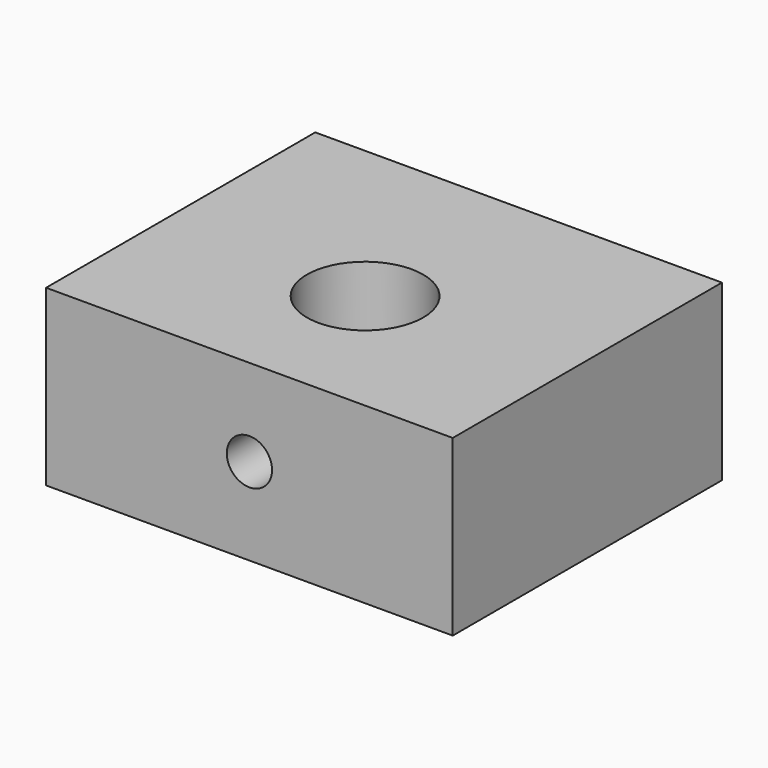
from build123d import *

# Parameters (mm, degrees)
F0_W     = 70.1
F0_H     = 58
F1_DEPTH = 30
F2_R     = 10.025
F3_DEPTH = 30
F5_D     = 7.8


with BuildPart() as f1:
    # F0 (on Top) → F1 (new body)
    with BuildSketch(Plane.XY):
        with Locations((35.05, -29)):
            Rectangle(F0_W, F0_H)
    extrude(amount=F1_DEPTH)

    # F2 (on face) → F3 (cut)
    with BuildSketch(Plane.XY):
        with Locations((35.05, -33.0747030675)):
            Circle(F2_R)
    extrude(amount=F3_DEPTH, mode=Mode.SUBTRACT)

    # F5 (through all)
    with Locations(Plane.XZ.offset(58)):
        with Locations((35.05, 15)):
            Hole(F5_D / 2)


solid = f1.part
